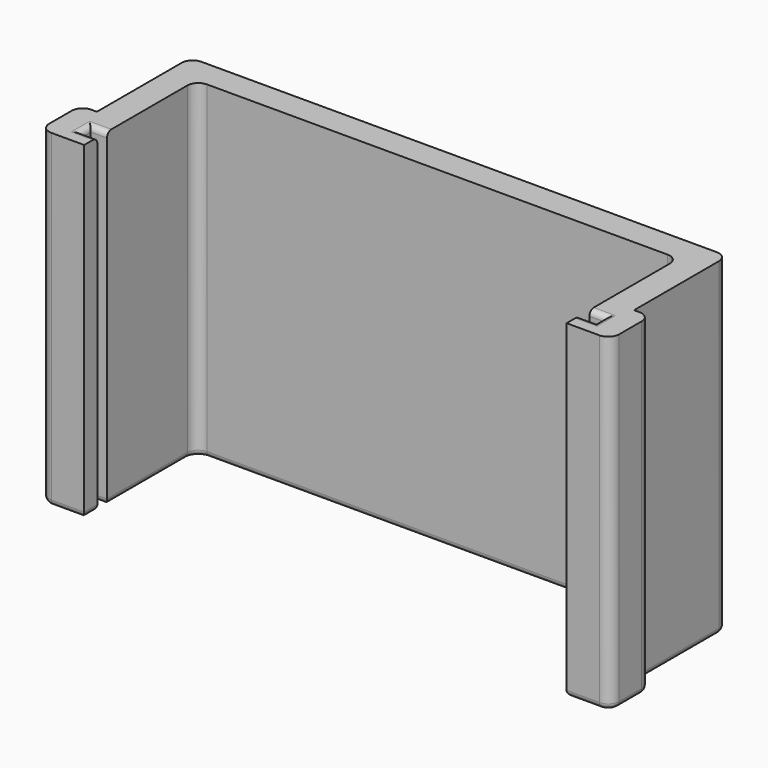
from build123d import *

# Parameters (mm, degrees)
F0_W     = 3
F0_H     = 9.1476
F1_DEPTH = 60
F2_R     = 2
F3_R     = 1


with BuildPart() as f1:
    # F0 (on Top) → F1 (new body)
    with BuildSketch(Plane.XY):
        with Locations((-23.505458, -12.97862)):
            Rectangle(F0_W, F0_H)
        Polygon((76.056968, 12.94758), (-22.005458, 12.94758), (-22.005458, -8.40482), (-22.005458, -17.55242), (-17.005458, -17.55242), (-17.005458, -14.55242), (-19.974245, -14.55242), (-19.974245, -12.35242), (-17.005458, -12.35242), (-17.005458, 7.983583), (71.056968, 7.983583), (71.056968, -12.35242), (74.025755, -12.35242), (74.025755, -14.55242), (71.056968, -14.55242), (71.056968, -17.55242), (76.056968, -17.55242), (76.056968, -8.40482), align=None)
        with Locations((77.556968, -12.97862)):
            Rectangle(F0_W, F0_H)
    extrude(amount=F1_DEPTH)

    # F2
    f2_edges = [f1.edges().sort_by_distance(p)[0] for p in [
        (-22.005458, 12.94758, 30),
        (76.056968, 12.94758, 30),
        (-25.005458, -8.40482, 30),
        (-25.005458, -17.55242, 30),
        (79.056968, -8.40482, 30),
        (79.056968, -17.55242, 30),
        (-17.005458, 7.983583, 30),
        (71.056968, 7.983583, 30),
    ]]
    fillet(f2_edges, radius=F2_R)

    # F3
    f3_edges = [f1.edges().sort_by_distance(p)[0] for p in [
        (-18.489851, -14.55242, 0),
        (-18.489851, -12.35242, 0),
        (-19.974245, -13.45242, 0),
        (-18.489851, -12.35242, 60),
        (-19.974245, -13.45242, 60),
        (-18.489851, -14.55242, 60),
        (72.541362, -14.55242, 0),
        (-25.005458, -12.97862, 0),
        (-24.419671, -8.990607, 0),
        (-24.419671, -16.966634, 0),
        (-22.505458, -8.40482, 0),
        (-20.005458, -17.55242, 0),
        (-22.005458, 1.27138, 0),
        (-17.005458, -16.05242, 0),
        (-21.419671, 12.361793, 0),
        (27.025755, 12.94758, 0),
        (75.471182, 12.361793, 0),
        (76.056968, 1.27138, 0),
        (-17.005458, -3.184419, 0),
        (76.556968, -8.40482, 0),
        (-16.419671, 7.397797, 0),
        (78.471182, -8.990607, 0),
        (27.025755, 7.983583, 0),
        (79.056968, -12.97862, 0),
        (70.471182, 7.397797, 0),
        (78.471182, -16.966634, 0),
        (71.056968, -3.184419, 0),
        (74.056968, -17.55242, 0),
        (72.541362, -12.35242, 0),
        (71.056968, -16.05242, 0),
        (74.025755, -13.45242, 0),
        (72.541362, -14.55242, 60),
        (74.025755, -13.45242, 60),
        (72.541362, -12.35242, 60),
    ]]
    fillet(f3_edges, radius=F3_R)


solid = f1.part
